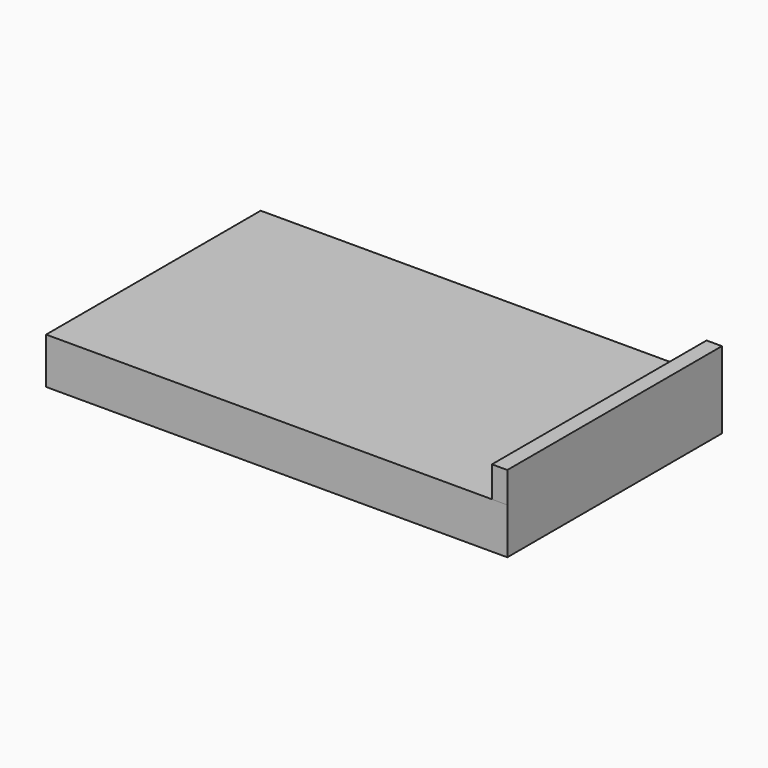
from build123d import *

# Parameters (mm, degrees)
F0_W          = 150
F0_H          = 15
F1_DEPTH      = 87.248489
F2_W          = 5
F2_H          = 87.248489
F3_DEPTH      = 10
F3_DEPTH_BACK = 10


with BuildPart() as f1:
    # F0 (on Front) → F1 (new body)
    with BuildSketch(Plane.XZ):
        Rectangle(F0_W, F0_H)
    extrude(amount=F1_DEPTH)

    # F2 (on face) → F3 (join, two sides)
    with BuildSketch(Plane.XY.offset(7.5)) as f3_sk:
        with Locations((72.5, -43.624244)):
            Rectangle(F2_W, F2_H)
    extrude(amount=F3_DEPTH)
    extrude(f3_sk.sketch, amount=-F3_DEPTH_BACK)


solid = f1.part
